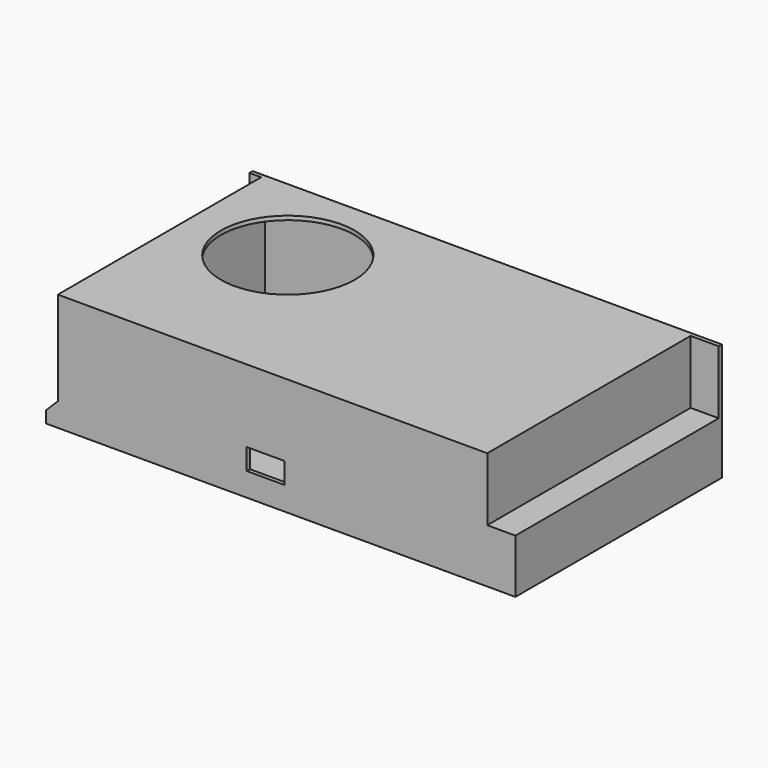
from build123d import *

# Parameters (mm, degrees)
SKETCH_W        = 200
SKETCH_H        = 110
PAD_DEPTH       = 50
SKETCH001_W     = 16
SKETCH001_H     = 9
POCKET_DEPTH    = 1.7
SKETCH002_W     = 12
SKETCH002_H     = 108.3
POCKET001_DEPTH = 27
SKETCH003_R     = 1.25
POCKET002_DEPTH = 10
SKETCH004_W     = 179.6
SKETCH004_H     = 46.6
POCKET003_DEPTH = 106.6
SKETCH005_W     = 5
SKETCH005_H     = 108.3
POCKET004_DEPTH = 40
CHAMFER_SIZE    = 4.99
SKETCH006_R     = 28.5
POCKET005_DEPTH = 5


with BuildPart() as part:
    # Sketch → Pad (new body)
    with BuildSketch(Plane.XY):
        with Locations((100, 55)):
            Rectangle(SKETCH_W, SKETCH_H)
    extrude(amount=PAD_DEPTH)

    # Sketch001 (on Face1 of Pad) → Pocket (cut)
    with BuildSketch(Plane.XZ):
        with Locations((93.5, 14.5)):
            Rectangle(SKETCH001_W, SKETCH001_H)
    extrude(amount=-POCKET_DEPTH, mode=Mode.SUBTRACT)

    # Sketch002 (on Face4 of Pocket) → Pocket001 (cut)
    with BuildSketch(Plane.XY.offset(50)):
        with Locations((194, 54.15)):
            Rectangle(SKETCH002_W, SKETCH002_H)
    extrude(amount=-POCKET001_DEPTH, mode=Mode.SUBTRACT)

    # Sketch003 (on Face2 of Pocket001) → Pocket002 (cut)
    with BuildSketch(Plane(origin=(0, 0, 0), x_dir=(1, 0, 0), z_dir=(0, 0, -1))):
        with Locations((12.5, -12.5)):
            Circle(SKETCH003_R)
        with Locations((12.5, -97.5)):
            Circle(SKETCH003_R)
        with Locations((138.5, -97.5)):
            Circle(SKETCH003_R)
        with Locations((138.5, -12.5)):
            Circle(SKETCH003_R)
    extrude(amount=-POCKET002_DEPTH, mode=Mode.SUBTRACT)

    # Sketch004 (on Face18 of Pocket002) → Pocket003 (cut)
    with BuildSketch(Plane.XZ.offset(-1.7)):
        with Locations((96.5, 25)):
            Rectangle(SKETCH004_W, SKETCH004_H)
    extrude(amount=-POCKET003_DEPTH, mode=Mode.SUBTRACT)

    # Sketch005 (on Face6 of Pocket003) → Pocket004 (cut)
    with BuildSketch(Plane.XY.offset(50)):
        with Locations((2.5, 54.15)):
            Rectangle(SKETCH005_W, SKETCH005_H)
    extrude(amount=-POCKET004_DEPTH, mode=Mode.SUBTRACT)

    # Chamfer
    chamfer_edges = [part.edges().sort_by_distance(p)[0] for p in [
        (0, 54.15, 10),
    ]]
    chamfer(chamfer_edges, length=CHAMFER_SIZE)

    # Sketch006 (on Face6 of Chamfer) → Pocket005 (cut)
    with BuildSketch(Plane.XY.offset(50)):
        with Locations((47, 70)):
            Circle(SKETCH006_R)
    extrude(amount=-POCKET005_DEPTH, mode=Mode.SUBTRACT)


solid = part.part
